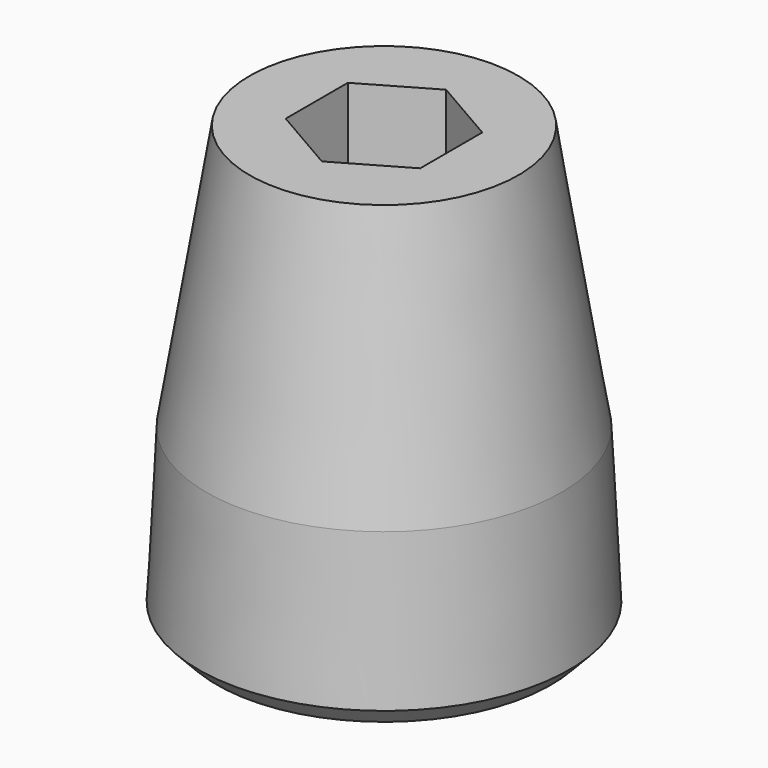
from build123d import *

# Parameters (mm, degrees)
POCKET_DEPTH = 7.5
CHAMFER_SIZE = 1


with BuildPart() as part:
    # Sketch → Revolution (revolve)
    with BuildSketch(Plane.YZ):
        Polygon((2, 0), (9.7, 0), (9.25, 9), (7, 22.8), (2, 22.8), align=None)
    revolve(axis=Axis((0, 0, 0), (0, 0, 1)))

    # Sketch001 (on Face4 of Revolution) → Pocket (cut)
    with BuildSketch(Plane(origin=(0, 0, 22.8), x_dir=(0, -1, 0), z_dir=(0, 0, 1))):
        Polygon((4.041452, 0), (2.020726, 3.5), (-2.020726, 3.5), (-4.041452, 0), (-2.020726, -3.5), (2.020726, -3.5), align=None)
    extrude(amount=-POCKET_DEPTH, mode=Mode.SUBTRACT)

    # Chamfer
    chamfer_edges = [part.edges().sort_by_distance(p)[0] for p in [
        (0, -9.7, 0),
    ]]
    chamfer(chamfer_edges, length=CHAMFER_SIZE)


solid = part.part
